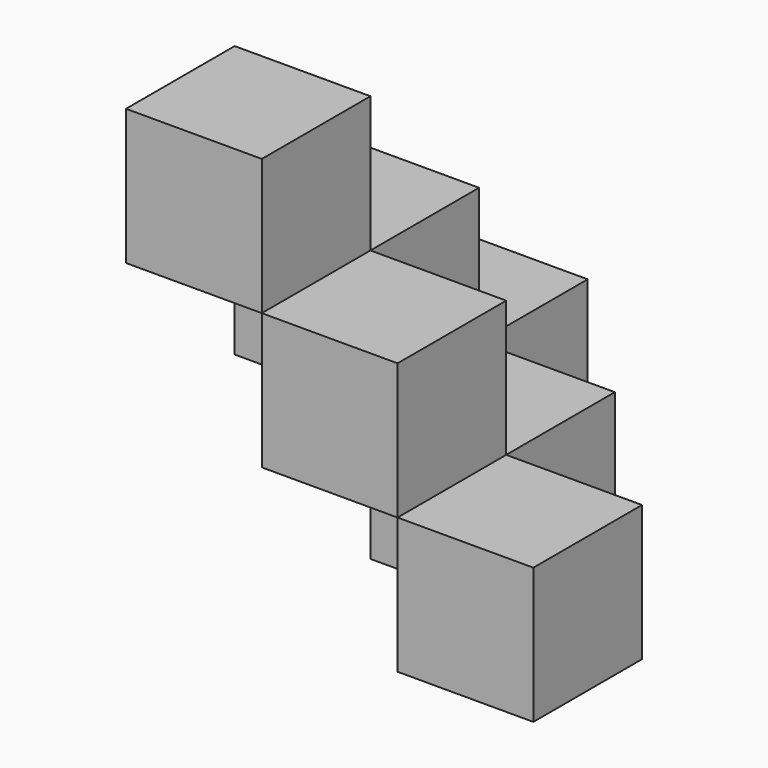
from build123d import *

# Parameters (mm, degrees)
BOX_W        = 10
BOX_H        = 10
BOX_DEPTH    = 10
BOX001_W     = 10
BOX001_H     = 10
BOX001_DEPTH = 10
BOX002_W     = 10
BOX002_H     = 10
BOX002_DEPTH = 10
BOX003_W     = 10
BOX003_H     = 10
BOX003_DEPTH = 10
BOX004_W     = 10
BOX004_H     = 10
BOX004_DEPTH = 10
BOX005_W     = 10
BOX005_H     = 10
BOX005_DEPTH = 10


with BuildPart() as cub:
    # Box → Box (new body)
    with BuildSketch(Plane.XY.offset(10)):
        with Locations((5, 5)):
            Rectangle(BOX_W, BOX_H)
    extrude(amount=BOX_DEPTH)


with BuildPart() as cub001:
    # Box001 → Box001 (new body)
    with BuildSketch(Plane(origin=(10, 0, 0), x_dir=(1, 0, 0), z_dir=(0, 0, 1))):
        with Locations((5, 5)):
            Rectangle(BOX001_W, BOX001_H)
    extrude(amount=BOX001_DEPTH)


with BuildPart() as cub002:
    # Box002 → Box002 (new body)
    with BuildSketch(Plane(origin=(0, 10, 0), x_dir=(1, 0, 0), z_dir=(0, 0, 1))):
        with Locations((5, 5)):
            Rectangle(BOX002_W, BOX002_H)
    extrude(amount=BOX002_DEPTH)


with BuildPart() as cub003:
    # Box003 → Box003 (new body)
    with BuildSketch(Plane(origin=(20, 0, -10), x_dir=(1, 0, 0), z_dir=(0, 0, 1))):
        with Locations((5, 5)):
            Rectangle(BOX003_W, BOX003_H)
    extrude(amount=BOX003_DEPTH)


with BuildPart() as cub004:
    # Box004 → Box004 (new body)
    with BuildSketch(Plane(origin=(10, 10, -10), x_dir=(1, 0, 0), z_dir=(0, 0, 1))):
        with Locations((5, 5)):
            Rectangle(BOX004_W, BOX004_H)
    extrude(amount=BOX004_DEPTH)


with BuildPart() as cub005:
    # Box005 → Box005 (new body)
    with BuildSketch(Plane(origin=(0, 20, -10), x_dir=(1, 0, 0), z_dir=(0, 0, 1))):
        with Locations((5, 5)):
            Rectangle(BOX005_W, BOX005_H)
    extrude(amount=BOX005_DEPTH)


solid = Compound([cub.part, cub001.part, cub002.part, cub003.part, cub004.part, cub005.part])
